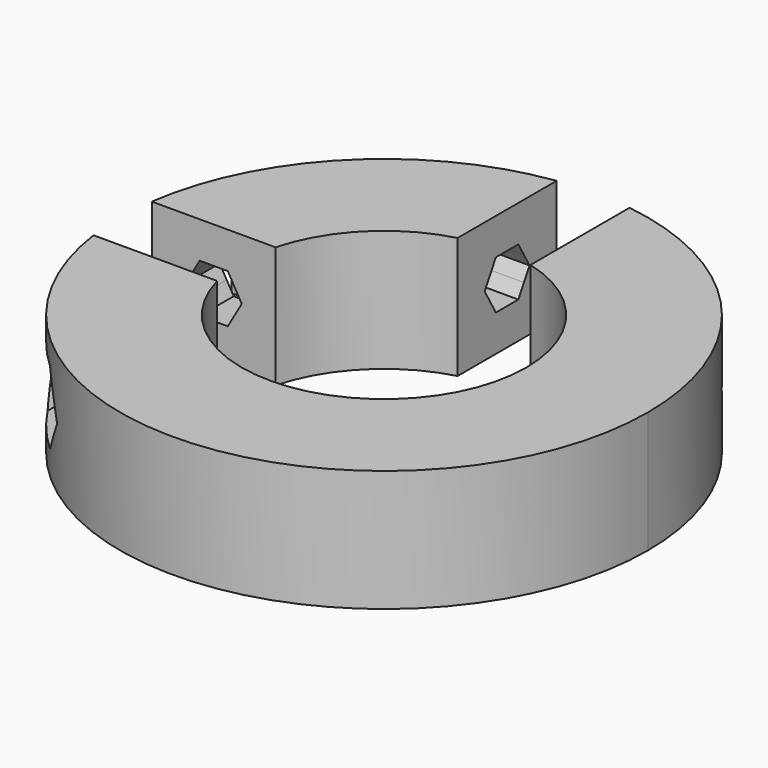
from build123d import *

# Parameters (mm, degrees)
F1_DEPTH      = 10
F3_DEPTH      = 18.5027231868
F3_DEPTH_BACK = 24.711
F5_DEPTH      = 18.5027231868
F5_DEPTH_BACK = 24.711
F6_START      = 10
F6_DEPTH      = 15
F7_START      = 10
F7_DEPTH      = 15
F8_R          = 1.5
F9_DEPTH      = 25
F10_R         = 1.5
F11_DEPTH     = 25
F12_START     = -3.5
F12_DEPTH     = 2.5
F13_START     = -3.5
F13_DEPTH     = 2.5


with BuildPart() as f1:
    # F0 (on Top) → F1 (new body)
    with BuildSketch(Plane.XY):
        with BuildLine():
            ThreePointArc((-11.3191916673, 3), (-8.2802204077, 8.2802204077), (-3, 11.3191916673))
            Line((-3, 11.3191916673), (-3, 21.5017231868))
            ThreePointArc((-3, 21.5017231868), (-15.3512882196, 15.3512882196), (-21.5017231868, 3))
            Line((-21.5017231868, 3), (-11.3191916673, 3))
        make_face()
    extrude(amount=F1_DEPTH)


with BuildPart() as f1b:
    # F0 (on Top) → F1, piece 2 (new body)
    with BuildSketch(Plane.XY):
        with BuildLine():
            ThreePointArc((3, 11.3191916673), (9.2804660443, 7.1412218842), (11.71, 0))
            ThreePointArc((11.71, 0), (1.5126740522, -11.6118868928), (-11.3191916673, -3))
            Line((-11.3191916673, -3), (-21.5017231868, -3))
            ThreePointArc((-21.5017231868, -3), (1.5036105905, -21.6578682052), (21.71, 0))
            ThreePointArc((21.71, 0), (16.3776387187, 14.2512122291), (3, 21.5017231868))
            Line((3, 21.5017231868), (3, 11.3191916673))
        make_face()
    extrude(amount=F1_DEPTH)


with BuildPart() as f3_tool:
    # F2 (on face) → F3 (new body, two sides)
    with BuildSketch(Plane.XZ.offset(-3)) as f3_sk:
        with BuildLine():
            Line((-17.5651579654, 3), (-16.410457427, 3))
            ThreePointArc((-16.410457427, 3), (-17.4104574053, 3.2679491799), (-18.1425082096, 3.9999999567))
            Line((-18.1425082096, 3.9999999567), (-17.5651579654, 3))
        make_face()
        with BuildLine():
            Line((-15.2557568886, 3), (-14.6784066445, 3.9999999567))
            ThreePointArc((-14.6784066445, 3.9999999567), (-15.4104574487, 3.2679491799), (-16.410457427, 3))
            Line((-16.410457427, 3), (-15.2557568886, 3))
        make_face()
        with BuildLine():
            ThreePointArc((-14.6784066445, 6.0000000433), (-14.4786057809, 5.5176381144), (-14.410457427, 5))
            ThreePointArc((-14.410457427, 5), (-14.4786057809, 4.4823618856), (-14.6784066445, 3.9999999567))
            Line((-14.6784066445, 3.9999999567), (-14.1010563502, 5))
            Line((-14.1010563502, 5), (-14.6784066445, 6.0000000433))
        make_face()
        with BuildLine():
            ThreePointArc((-16.410457427, 7), (-15.4104574487, 6.7320508201), (-14.6784066445, 6.0000000433))
            Line((-14.6784066445, 6.0000000433), (-15.2557568886, 7))
            Line((-15.2557568886, 7), (-16.410457427, 7))
        make_face()
        with BuildLine():
            ThreePointArc((-18.1425082096, 3.9999999567), (-18.410457427, 4.9999999686), (-18.142508241, 5.9999999889))
            Line((-18.142508241, 5.9999999889), (-18.7198585038, 5))
            Line((-18.7198585038, 5), (-18.1425082096, 3.9999999567))
        make_face()
        with BuildLine():
            ThreePointArc((-14.6784066445, 3.9999999567), (-14.4786057809, 4.4823618856), (-14.410457427, 5))
            ThreePointArc((-14.410457427, 5), (-14.4786057809, 5.5176381144), (-14.6784066445, 6.0000000433))
            ThreePointArc((-14.6784066445, 6.0000000433), (-15.4104574487, 6.7320508201), (-16.410457427, 7))
            ThreePointArc((-16.410457427, 7), (-17.4104574326, 6.7320508044), (-18.142508241, 5.9999999889))
            ThreePointArc((-18.142508241, 5.9999999889), (-18.410457427, 4.9999999686), (-18.1425082096, 3.9999999567))
            ThreePointArc((-18.1425082096, 3.9999999567), (-17.4104574053, 3.2679491799), (-16.410457427, 3))
            ThreePointArc((-16.410457427, 3), (-15.4104574487, 3.2679491799), (-14.6784066445, 3.9999999567))
        make_face()
        with BuildLine():
            ThreePointArc((-18.142508241, 5.9999999889), (-17.4104574326, 6.7320508044), (-16.410457427, 7))
            Line((-16.410457427, 7), (-17.5651579654, 7))
            Line((-17.5651579654, 7), (-18.142508241, 5.9999999889))
        make_face()
    extrude(amount=-F3_DEPTH)
    extrude(f3_sk.sketch, amount=F3_DEPTH_BACK)


with BuildPart() as f1_1:
    add(f1.part)

    # F3: cut by f3_tool
    add(f3_tool.part, mode=Mode.SUBTRACT)


with BuildPart() as f1b_1:
    add(f1b.part)

    # F3: cut by f3_tool
    add(f3_tool.part, mode=Mode.SUBTRACT)


with BuildPart() as f5_tool:
    # F4 (on face) → F5 (new body, two sides)
    with BuildSketch(Plane.YZ.offset(-3)) as f5_sk:
        with BuildLine():
            ThreePointArc((16.410457427, 7), (17.4104574053, 6.7320508201), (18.1425082096, 6.0000000433))
            Line((18.1425082096, 6.0000000433), (17.5651579654, 7))
            Line((17.5651579654, 7), (16.410457427, 7))
        make_face()
        with BuildLine():
            Line((17.5651579654, 3), (18.142508241, 4.0000000111))
            ThreePointArc((18.142508241, 4.0000000111), (17.4104574326, 3.2679491956), (16.410457427, 3))
            Line((16.410457427, 3), (17.5651579654, 3))
        make_face()
        with BuildLine():
            ThreePointArc((18.1425082096, 6.0000000433), (18.3423090731, 5.5176381144), (18.410457427, 5))
            ThreePointArc((18.410457427, 5), (18.3423090812, 4.482361916), (18.142508241, 4.0000000111))
            Line((18.142508241, 4.0000000111), (18.7198585038, 5))
            Line((18.7198585038, 5), (18.1425082096, 6.0000000433))
        make_face()
        with BuildLine():
            ThreePointArc((14.6784066324, 6.0000000225), (15.4104574383, 6.7320508141), (16.410457427, 7))
            Line((16.410457427, 7), (15.2557568886, 7))
            Line((15.2557568886, 7), (14.6784066324, 6.0000000225))
        make_face()
        with BuildLine():
            ThreePointArc((14.678406613, 4.0000000111), (14.410457427, 5.0000000194), (14.6784066324, 6.0000000225))
            Line((14.6784066324, 6.0000000225), (14.1010563502, 5))
            Line((14.1010563502, 5), (14.678406613, 4.0000000111))
        make_face()
        with BuildLine():
            Line((15.2557568886, 3), (16.410457427, 3))
            ThreePointArc((16.410457427, 3), (15.4104574214, 3.2679491956), (14.678406613, 4.0000000111))
            Line((14.678406613, 4.0000000111), (15.2557568886, 3))
        make_face()
        with BuildLine():
            ThreePointArc((18.142508241, 4.0000000111), (18.3423090812, 4.482361916), (18.410457427, 5))
            ThreePointArc((18.410457427, 5), (18.3423090731, 5.5176381144), (18.1425082096, 6.0000000433))
            ThreePointArc((18.1425082096, 6.0000000433), (17.4104574053, 6.7320508201), (16.410457427, 7))
            ThreePointArc((16.410457427, 7), (15.4104574383, 6.7320508141), (14.6784066324, 6.0000000225))
            ThreePointArc((14.6784066324, 6.0000000225), (14.410457427, 5.0000000194), (14.678406613, 4.0000000111))
            ThreePointArc((14.678406613, 4.0000000111), (15.4104574214, 3.2679491956), (16.410457427, 3))
            ThreePointArc((16.410457427, 3), (17.4104574326, 3.2679491956), (18.142508241, 4.0000000111))
        make_face()
    extrude(amount=-F5_DEPTH)
    extrude(f5_sk.sketch, amount=F5_DEPTH_BACK)


with BuildPart() as f1_2:
    add(f1_1.part)

    # F5: cut by f5_tool
    add(f5_tool.part, mode=Mode.SUBTRACT)

    # F8 (on face) → F9 (cut)
    with BuildSketch(Plane(origin=(3, 0, 0), x_dir=(0, -1, 0), z_dir=(-1, 0, 0))):
        with Locations((-16.410457427, 5)):
            Circle(F8_R)
    extrude(amount=-F9_DEPTH, mode=Mode.SUBTRACT)

    # F10 (on face) → F11 (cut)
    with BuildSketch(Plane(origin=(0, -3, 0), x_dir=(-1, 0, 0), z_dir=(0, 1, 0))):
        with Locations((16.410457427, 5)):
            Circle(F10_R)
    extrude(amount=-F11_DEPTH, mode=Mode.SUBTRACT)

    # F4 (on face) → F12 (cut)
    with BuildSketch(Plane.YZ.offset(-3).offset(F12_START)):
        Polygon((20.4519093113, 5), (18.4311833692, 1.5), (21.5017231868, 1.5), (21.5017231868, 8.5), (18.4311833692, 8.5), align=None)
        Polygon((14.3897314848, 1.5), (18.4311833692, 1.5), (20.4519093113, 5), (18.4311833692, 8.5), (14.3897314848, 8.5), (12.3690055427, 5), align=None)
        Polygon((18.1425082346, 8), (19.0085336253, 6.5000000226), (19.8745590421, 5), (19.0085336636, 3.5000000436), (18.1425082346, 2), (16.410457427, 2), (14.6784066194, 2), (13.8123811995, 3.500000028), (12.9463558119, 5), (13.8123812433, 6.5000000478), (14.6784066194, 8), (16.410457427, 8), align=None, mode=Mode.SUBTRACT)
        with BuildLine():
            ThreePointArc((19.0085336253, 6.5000000226), (19.3082349025, 5.7764571479), (19.410457427, 5))
            ThreePointArc((19.410457427, 5), (19.3082349124, 4.223542889), (19.0085336636, 3.5000000436))
            Line((19.0085336636, 3.5000000436), (19.8745590421, 5))
            Line((19.8745590421, 5), (19.0085336253, 6.5000000226))
        make_face()
        with BuildLine():
            ThreePointArc((16.410457427, 8), (17.9104574157, 7.5980762179), (19.0085336253, 6.5000000226))
            Line((19.0085336253, 6.5000000226), (18.1425082346, 8))
            Line((18.1425082346, 8), (16.410457427, 8))
        make_face()
        with BuildLine():
            Line((18.1425082346, 2), (19.0085336636, 3.5000000436))
            ThreePointArc((19.0085336636, 3.5000000436), (17.9104574488, 2.4019238012), (16.410457427, 2))
            Line((16.410457427, 2), (18.1425082346, 2))
        make_face()
        with BuildLine():
            Line((14.6784066194, 2), (16.410457427, 2))
            ThreePointArc((16.410457427, 2), (14.910457413, 2.4019237967), (13.8123811995, 3.500000028))
            Line((13.8123811995, 3.500000028), (14.6784066194, 2))
        make_face()
        with BuildLine():
            ThreePointArc((13.8123811995, 3.500000028), (13.410457427, 5.0000000438), (13.8123812433, 6.5000000478))
            Line((13.8123812433, 6.5000000478), (12.9463558119, 5))
            Line((12.9463558119, 5), (13.8123811995, 3.500000028))
        make_face()
        with BuildLine():
            ThreePointArc((13.8123812433, 6.5000000478), (14.9104574509, 7.5980762252), (16.410457427, 8))
            Line((16.410457427, 8), (14.6784066194, 8))
            Line((14.6784066194, 8), (13.8123812433, 6.5000000478))
        make_face()
        with BuildLine():
            ThreePointArc((19.0085336636, 3.5000000436), (19.3082349124, 4.223542889), (19.410457427, 5))
            ThreePointArc((19.410457427, 5), (19.3082349025, 5.7764571479), (19.0085336253, 6.5000000226))
            ThreePointArc((19.0085336253, 6.5000000226), (17.9104574157, 7.5980762179), (16.410457427, 8))
            ThreePointArc((16.410457427, 8), (14.9104574509, 7.5980762252), (13.8123812433, 6.5000000478))
            ThreePointArc((13.8123812433, 6.5000000478), (13.410457427, 5.0000000438), (13.8123811995, 3.500000028))
            ThreePointArc((13.8123811995, 3.500000028), (14.910457413, 2.4019237967), (16.410457427, 2))
            ThreePointArc((16.410457427, 2), (17.9104574488, 2.4019238012), (19.0085336636, 3.5000000436))
        make_face()
        Polygon((17.5651579654, 7), (18.1425082096, 6.0000000433), (18.7198585038, 5), (18.142508241, 4.0000000111), (17.5651579654, 3), (16.410457427, 3), (15.2557568886, 3), (14.678406613, 4.0000000111), (14.1010563502, 5), (14.6784066324, 6.0000000225), (15.2557568886, 7), (16.410457427, 7), align=None, mode=Mode.SUBTRACT)
    extrude(amount=-F12_DEPTH, mode=Mode.SUBTRACT)

    # F2 (on face) → F13 (cut)
    with BuildSketch(Plane.XZ.offset(-3).offset(F13_START)):
        Polygon((-20.4519093113, 5), (-18.4311833692, 8.5), (-21.5017231868, 8.5), (-21.5017231868, 1.5), (-18.4311833692, 1.5), align=None)
        Polygon((-14.3897314848, 8.5), (-18.4311833692, 8.5), (-20.4519093113, 5), (-18.4311833692, 1.5), (-14.3897314848, 1.5), (-12.3690055427, 5), align=None)
        Polygon((-14.6784066194, 8), (-13.8123811905, 6.4999999564), (-12.9463558119, 5), (-13.8123812523, 3.4999999365), (-14.6784066194, 2), (-16.410457427, 2), (-18.1425082346, 2), (-19.0085336787, 3.5000000698), (-19.8745590421, 5), (-19.0085335545, 6.5000001453), (-18.1425082346, 8), (-16.410457427, 8), align=None, mode=Mode.SUBTRACT)
        with BuildLine():
            ThreePointArc((-19.0085336787, 3.5000000698), (-19.410457427, 5.0000001242), (-19.0085335545, 6.5000001453))
            Line((-19.0085335545, 6.5000001453), (-19.8745590421, 5))
            Line((-19.8745590421, 5), (-19.0085336787, 3.5000000698))
        make_face()
        with BuildLine():
            Line((-18.1425082346, 2), (-16.410457427, 2))
            ThreePointArc((-16.410457427, 2), (-17.9104574619, 2.4019238088), (-19.0085336787, 3.5000000698))
            Line((-19.0085336787, 3.5000000698), (-18.1425082346, 2))
        make_face()
        with BuildLine():
            ThreePointArc((-19.0085335545, 6.5000001453), (-17.9104573544, 7.5980762533), (-16.410457427, 8))
            Line((-16.410457427, 8), (-18.1425082346, 8))
            Line((-18.1425082346, 8), (-19.0085335545, 6.5000001453))
        make_face()
        with BuildLine():
            ThreePointArc((-16.410457427, 8), (-14.9104574052, 7.5980761988), (-13.8123811905, 6.4999999564))
            Line((-13.8123811905, 6.4999999564), (-14.6784066194, 8))
            Line((-14.6784066194, 8), (-16.410457427, 8))
        make_face()
        with BuildLine():
            ThreePointArc((-13.8123811905, 6.4999999564), (-13.5126799416, 5.776457111), (-13.410457427, 5))
            ThreePointArc((-13.410457427, 5), (-13.5126799576, 4.2235428293), (-13.8123812523, 3.4999999365))
            Line((-13.8123812523, 3.4999999365), (-12.9463558119, 5))
            Line((-12.9463558119, 5), (-13.8123811905, 6.4999999564))
        make_face()
        with BuildLine():
            Line((-14.6784066194, 2), (-13.8123812523, 3.4999999365))
            ThreePointArc((-13.8123812523, 3.4999999365), (-14.9104574587, 2.4019237703), (-16.410457427, 2))
            Line((-16.410457427, 2), (-14.6784066194, 2))
        make_face()
        with BuildLine():
            ThreePointArc((-13.8123812523, 3.4999999365), (-13.5126799576, 4.2235428293), (-13.410457427, 5))
            ThreePointArc((-13.410457427, 5), (-13.5126799416, 5.776457111), (-13.8123811905, 6.4999999564))
            ThreePointArc((-13.8123811905, 6.4999999564), (-14.9104574052, 7.5980761988), (-16.410457427, 8))
            ThreePointArc((-16.410457427, 8), (-17.9104573544, 7.5980762533), (-19.0085335545, 6.5000001453))
            ThreePointArc((-19.0085335545, 6.5000001453), (-19.410457427, 5.0000001242), (-19.0085336787, 3.5000000698))
            ThreePointArc((-19.0085336787, 3.5000000698), (-17.9104574619, 2.4019238088), (-16.410457427, 2))
            ThreePointArc((-16.410457427, 2), (-14.9104574587, 2.4019237703), (-13.8123812523, 3.4999999365))
        make_face()
        Polygon((-15.2557568886, 7), (-14.6784066445, 6.0000000433), (-14.1010563502, 5), (-14.6784066445, 3.9999999567), (-15.2557568886, 3), (-16.410457427, 3), (-17.5651579654, 3), (-18.1425082096, 3.9999999567), (-18.7198585038, 5), (-18.142508241, 5.9999999889), (-17.5651579654, 7), (-16.410457427, 7), align=None, mode=Mode.SUBTRACT)
    extrude(amount=-F13_DEPTH, mode=Mode.SUBTRACT)


with BuildPart() as f1b_2:
    add(f1b_1.part)

    # F5: cut by f5_tool
    add(f5_tool.part, mode=Mode.SUBTRACT)

    # F2 (on face) → F6 (cut)
    with BuildSketch(Plane.XZ.offset(-3).offset(F6_START)):
        with BuildLine():
            ThreePointArc((-13.8123812523, 3.4999999365), (-13.5126799576, 4.2235428293), (-13.410457427, 5))
            ThreePointArc((-13.410457427, 5), (-13.5126799416, 5.776457111), (-13.8123811905, 6.4999999564))
            ThreePointArc((-13.8123811905, 6.4999999564), (-14.9104574052, 7.5980761988), (-16.410457427, 8))
            ThreePointArc((-16.410457427, 8), (-17.9104573544, 7.5980762533), (-19.0085335545, 6.5000001453))
            ThreePointArc((-19.0085335545, 6.5000001453), (-19.410457427, 5.0000001242), (-19.0085336787, 3.5000000698))
            ThreePointArc((-19.0085336787, 3.5000000698), (-17.9104574619, 2.4019238088), (-16.410457427, 2))
            ThreePointArc((-16.410457427, 2), (-14.9104574587, 2.4019237703), (-13.8123812523, 3.4999999365))
        make_face()
        Polygon((-15.2557568886, 7), (-14.6784066445, 6.0000000433), (-14.1010563502, 5), (-14.6784066445, 3.9999999567), (-15.2557568886, 3), (-16.410457427, 3), (-17.5651579654, 3), (-18.1425082096, 3.9999999567), (-18.7198585038, 5), (-18.142508241, 5.9999999889), (-17.5651579654, 7), (-16.410457427, 7), align=None, mode=Mode.SUBTRACT)
        with BuildLine():
            ThreePointArc((-19.0085335545, 6.5000001453), (-17.9104573544, 7.5980762533), (-16.410457427, 8))
            Line((-16.410457427, 8), (-18.1425082346, 8))
            Line((-18.1425082346, 8), (-19.0085335545, 6.5000001453))
        make_face()
        with BuildLine():
            ThreePointArc((-19.0085336787, 3.5000000698), (-19.410457427, 5.0000001242), (-19.0085335545, 6.5000001453))
            Line((-19.0085335545, 6.5000001453), (-19.8745590421, 5))
            Line((-19.8745590421, 5), (-19.0085336787, 3.5000000698))
        make_face()
        with BuildLine():
            Line((-18.1425082346, 2), (-16.410457427, 2))
            ThreePointArc((-16.410457427, 2), (-17.9104574619, 2.4019238088), (-19.0085336787, 3.5000000698))
            Line((-19.0085336787, 3.5000000698), (-18.1425082346, 2))
        make_face()
        with BuildLine():
            Line((-14.6784066194, 2), (-13.8123812523, 3.4999999365))
            ThreePointArc((-13.8123812523, 3.4999999365), (-14.9104574587, 2.4019237703), (-16.410457427, 2))
            Line((-16.410457427, 2), (-14.6784066194, 2))
        make_face()
        with BuildLine():
            ThreePointArc((-13.8123811905, 6.4999999564), (-13.5126799416, 5.776457111), (-13.410457427, 5))
            ThreePointArc((-13.410457427, 5), (-13.5126799576, 4.2235428293), (-13.8123812523, 3.4999999365))
            Line((-13.8123812523, 3.4999999365), (-12.9463558119, 5))
            Line((-12.9463558119, 5), (-13.8123811905, 6.4999999564))
        make_face()
        with BuildLine():
            ThreePointArc((-16.410457427, 8), (-14.9104574052, 7.5980761988), (-13.8123811905, 6.4999999564))
            Line((-13.8123811905, 6.4999999564), (-14.6784066194, 8))
            Line((-14.6784066194, 8), (-16.410457427, 8))
        make_face()
        with BuildLine():
            ThreePointArc((-16.410457427, 7), (-15.4104574487, 6.7320508201), (-14.6784066445, 6.0000000433))
            Line((-14.6784066445, 6.0000000433), (-15.2557568886, 7))
            Line((-15.2557568886, 7), (-16.410457427, 7))
        make_face()
        with BuildLine():
            ThreePointArc((-18.142508241, 5.9999999889), (-17.4104574326, 6.7320508044), (-16.410457427, 7))
            Line((-16.410457427, 7), (-17.5651579654, 7))
            Line((-17.5651579654, 7), (-18.142508241, 5.9999999889))
        make_face()
        with BuildLine():
            ThreePointArc((-18.1425082096, 3.9999999567), (-18.410457427, 4.9999999686), (-18.142508241, 5.9999999889))
            Line((-18.142508241, 5.9999999889), (-18.7198585038, 5))
            Line((-18.7198585038, 5), (-18.1425082096, 3.9999999567))
        make_face()
        with BuildLine():
            Line((-17.5651579654, 3), (-16.410457427, 3))
            ThreePointArc((-16.410457427, 3), (-17.4104574053, 3.2679491799), (-18.1425082096, 3.9999999567))
            Line((-18.1425082096, 3.9999999567), (-17.5651579654, 3))
        make_face()
        with BuildLine():
            Line((-15.2557568886, 3), (-14.6784066445, 3.9999999567))
            ThreePointArc((-14.6784066445, 3.9999999567), (-15.4104574487, 3.2679491799), (-16.410457427, 3))
            Line((-16.410457427, 3), (-15.2557568886, 3))
        make_face()
        with BuildLine():
            ThreePointArc((-14.6784066445, 6.0000000433), (-14.4786057809, 5.5176381144), (-14.410457427, 5))
            ThreePointArc((-14.410457427, 5), (-14.4786057809, 4.4823618856), (-14.6784066445, 3.9999999567))
            Line((-14.6784066445, 3.9999999567), (-14.1010563502, 5))
            Line((-14.1010563502, 5), (-14.6784066445, 6.0000000433))
        make_face()
    extrude(amount=F6_DEPTH, mode=Mode.SUBTRACT)

    # F4 (on face) → F7 (cut)
    with BuildSketch(Plane.YZ.offset(-3).offset(F7_START)):
        with BuildLine():
            ThreePointArc((19.0085336636, 3.5000000436), (19.3082349124, 4.223542889), (19.410457427, 5))
            ThreePointArc((19.410457427, 5), (19.3082349025, 5.7764571479), (19.0085336253, 6.5000000226))
            ThreePointArc((19.0085336253, 6.5000000226), (17.9104574157, 7.5980762179), (16.410457427, 8))
            ThreePointArc((16.410457427, 8), (14.9104574509, 7.5980762252), (13.8123812433, 6.5000000478))
            ThreePointArc((13.8123812433, 6.5000000478), (13.410457427, 5.0000000438), (13.8123811995, 3.500000028))
            ThreePointArc((13.8123811995, 3.500000028), (14.910457413, 2.4019237967), (16.410457427, 2))
            ThreePointArc((16.410457427, 2), (17.9104574488, 2.4019238012), (19.0085336636, 3.5000000436))
        make_face()
        Polygon((17.5651579654, 7), (18.1425082096, 6.0000000433), (18.7198585038, 5), (18.142508241, 4.0000000111), (17.5651579654, 3), (16.410457427, 3), (15.2557568886, 3), (14.678406613, 4.0000000111), (14.1010563502, 5), (14.6784066324, 6.0000000225), (15.2557568886, 7), (16.410457427, 7), align=None, mode=Mode.SUBTRACT)
        with BuildLine():
            Line((18.1425082346, 2), (19.0085336636, 3.5000000436))
            ThreePointArc((19.0085336636, 3.5000000436), (17.9104574488, 2.4019238012), (16.410457427, 2))
            Line((16.410457427, 2), (18.1425082346, 2))
        make_face()
        with BuildLine():
            Line((14.6784066194, 2), (16.410457427, 2))
            ThreePointArc((16.410457427, 2), (14.910457413, 2.4019237967), (13.8123811995, 3.500000028))
            Line((13.8123811995, 3.500000028), (14.6784066194, 2))
        make_face()
        with BuildLine():
            ThreePointArc((13.8123811995, 3.500000028), (13.410457427, 5.0000000438), (13.8123812433, 6.5000000478))
            Line((13.8123812433, 6.5000000478), (12.9463558119, 5))
            Line((12.9463558119, 5), (13.8123811995, 3.500000028))
        make_face()
        with BuildLine():
            ThreePointArc((13.8123812433, 6.5000000478), (14.9104574509, 7.5980762252), (16.410457427, 8))
            Line((16.410457427, 8), (14.6784066194, 8))
            Line((14.6784066194, 8), (13.8123812433, 6.5000000478))
        make_face()
        with BuildLine():
            ThreePointArc((16.410457427, 8), (17.9104574157, 7.5980762179), (19.0085336253, 6.5000000226))
            Line((19.0085336253, 6.5000000226), (18.1425082346, 8))
            Line((18.1425082346, 8), (16.410457427, 8))
        make_face()
        with BuildLine():
            ThreePointArc((19.0085336253, 6.5000000226), (19.3082349025, 5.7764571479), (19.410457427, 5))
            ThreePointArc((19.410457427, 5), (19.3082349124, 4.223542889), (19.0085336636, 3.5000000436))
            Line((19.0085336636, 3.5000000436), (19.8745590421, 5))
            Line((19.8745590421, 5), (19.0085336253, 6.5000000226))
        make_face()
        with BuildLine():
            ThreePointArc((16.410457427, 7), (17.4104574053, 6.7320508201), (18.1425082096, 6.0000000433))
            Line((18.1425082096, 6.0000000433), (17.5651579654, 7))
            Line((17.5651579654, 7), (16.410457427, 7))
        make_face()
        with BuildLine():
            ThreePointArc((14.6784066324, 6.0000000225), (15.4104574383, 6.7320508141), (16.410457427, 7))
            Line((16.410457427, 7), (15.2557568886, 7))
            Line((15.2557568886, 7), (14.6784066324, 6.0000000225))
        make_face()
        with BuildLine():
            ThreePointArc((14.678406613, 4.0000000111), (14.410457427, 5.0000000194), (14.6784066324, 6.0000000225))
            Line((14.6784066324, 6.0000000225), (14.1010563502, 5))
            Line((14.1010563502, 5), (14.678406613, 4.0000000111))
        make_face()
        with BuildLine():
            Line((15.2557568886, 3), (16.410457427, 3))
            ThreePointArc((16.410457427, 3), (15.4104574214, 3.2679491956), (14.678406613, 4.0000000111))
            Line((14.678406613, 4.0000000111), (15.2557568886, 3))
        make_face()
        with BuildLine():
            Line((17.5651579654, 3), (18.142508241, 4.0000000111))
            ThreePointArc((18.142508241, 4.0000000111), (17.4104574326, 3.2679491956), (16.410457427, 3))
            Line((16.410457427, 3), (17.5651579654, 3))
        make_face()
        with BuildLine():
            ThreePointArc((18.1425082096, 6.0000000433), (18.3423090731, 5.5176381144), (18.410457427, 5))
            ThreePointArc((18.410457427, 5), (18.3423090812, 4.482361916), (18.142508241, 4.0000000111))
            Line((18.142508241, 4.0000000111), (18.7198585038, 5))
            Line((18.7198585038, 5), (18.1425082096, 6.0000000433))
        make_face()
    extrude(amount=F7_DEPTH, mode=Mode.SUBTRACT)


solid = Compound([f1_2.part, f1b_2.part])
